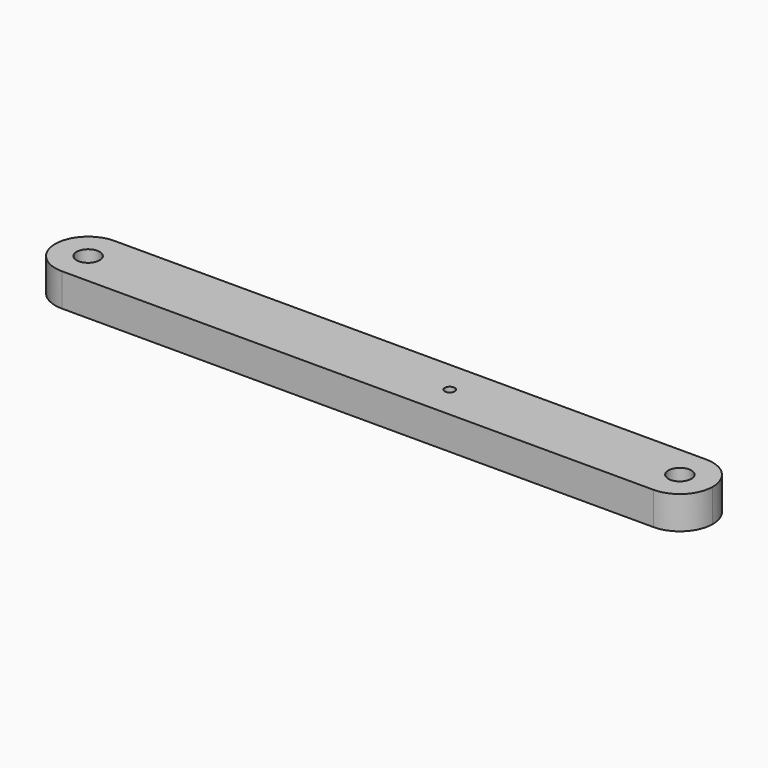
from build123d import *

# Parameters (mm, degrees)
F0_R     = 1.75
F0_R_2   = 0.75
F1_DEPTH = 5


with BuildPart() as f1:
    # F0 (on Top) → F1 (new body)
    with BuildSketch(Plane.XY):
        with BuildLine():
            ThreePointArc((50, 0), (48.535534, 3.535534), (45, 5))
            Line((45, 5), (-45, 5))
            ThreePointArc((-45, 5), (-48.535534, 3.535534), (-50, 0))
            ThreePointArc((-50, 0), (-48.535534, -3.535534), (-45, -5))
            Line((-45, -5), (45, -5))
            ThreePointArc((45, -5), (48.535534, -3.535534), (50, 0))
        make_face()
        with Locations((-45, 0)):
            Circle(F0_R, mode=Mode.SUBTRACT)
        with Locations((10, 0)):
            Circle(F0_R_2, mode=Mode.SUBTRACT)
        with Locations((45, 0)):
            Circle(F0_R, mode=Mode.SUBTRACT)
    extrude(amount=F1_DEPTH)


solid = f1.part
